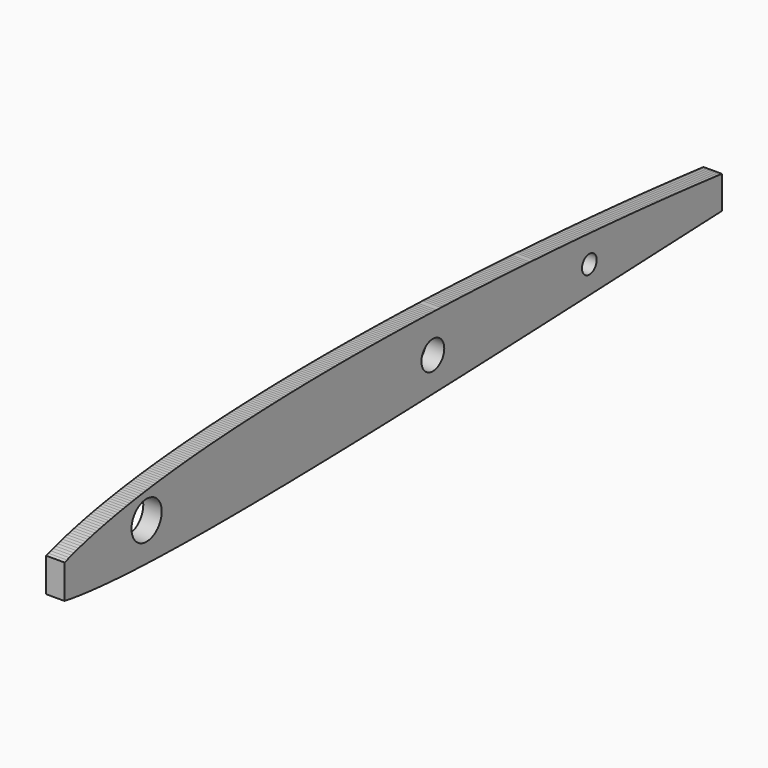
from build123d import *

# Parameters (mm, degrees)
F1_DEPTH = 4
F2_R     = 4.1
F2_R_2   = 3.1
F3_DEPTH = 4.001
F4_R     = 6
F5_DEPTH = 4


with BuildPart() as f1:
    # F0 (on Right) → F1 (new body)
    with BuildSketch(Plane.YZ):
        Polygon((61.373568, -4.357358), (61.388568, 2.741917), (60.753492, 2.811349), (60.118136, 2.879724), (59.483136, 2.948104), (58.848136, 3.016485), (58.21294, 3.084285), (57.577736, 3.151479), (56.942558, 3.218149), (56.307459, 3.284526), (55.672239, 3.350252), (55.037182, 3.415811), (54.40192, 3.480594), (53.766878, 3.545255), (53.131628, 3.609175), (52.496559, 3.672895), (51.861352, 3.736001), (51.226242, 3.798781), (50.591077, 3.861074), (49.955925, 3.922918), (49.320803, 3.984402), (48.68561, 4.045314), (48.05053, 4.105991), (47.415289, 4.165953), (46.780249, 4.225801), (46.144986, 4.284868), (45.509964, 4.343872), (44.874691, 4.402065), (44.239664, 4.460182), (43.604414, 4.51756), (42.969366, 4.574797), (42.334141, 4.631366), (41.699071, 4.687732), (41.063869, 4.7435), (40.428779, 4.799003), (39.793601, 4.853977), (39.158491, 4.908625), (38.523335, 4.962813), (37.888205, 5.016617), (37.253071, 5.070027), (36.617922, 5.122994), (35.98281, 5.175633), (35.347645, 5.227783), (34.712557, 5.279674), (34.077379, 5.331038), (33.442294, 5.382149), (32.807111, 5.432719), (32.172032, 5.483058), (31.536844, 5.53284), (30.901772, 5.58241), (30.26658, 5.63141), (29.631514, 5.680219), (28.996317, 5.728442), (28.361258, 5.776493), (27.726056, 5.823946), (27.091003, 5.871244), (26.455797, 5.917931), (25.820751, 5.964482), (25.185539, 6.010407), (24.550499, 6.056216), (23.915283, 6.101385), (23.28025, 6.146456), (22.645011, 6.19082), (22.009981, 6.235098), (21.374762, 6.278726), (20.739731, 6.322265), (20.104517, 6.36517), (19.469484, 6.407978), (18.834275, 6.450168), (18.199239, 6.492253), (17.564035, 6.533734), (16.928997, 6.575103), (16.293798, 6.615881), (15.658757, 6.656541), (15.023562, 6.696622), (14.388519, 6.736577), (13.753327, 6.775965), (13.118282, 6.81522), (12.483094, 6.853919), (11.848046, 6.892476), (11.212786, 6.930264), (10.577714, 6.967842), (9.942714, 7.005421), (9.307714, 7.043), (8.672463, 7.079832), (8.037378, 7.116417), (7.4022, 7.152473), (6.767133, 7.188333), (6.131957, 7.223671), (5.496883, 7.25879), (4.861708, 7.293394), (4.226627, 7.327757), (3.591454, 7.36161), (2.956365, 7.395201), (2.321195, 7.428287), (1.686098, 7.461087), (1.05093, 7.493389), (0.415824, 7.525381), (-0.219341, 7.556883), (-0.854455, 7.588049), (-1.48971, 7.618461), (-2.124902, 7.648306), (-2.759902, 7.678152), (-3.394902, 7.707999), (-4.030146, 7.737123), (-4.665357, 7.765623), (-5.300512, 7.793665), (-5.935653, 7.821291), (-6.570806, 7.848465), (-7.205951, 7.875208), (-7.841102, 7.901505), (-8.476253, 7.927357), (-9.111401, 7.952771), (-9.746557, 7.977725), (-10.381703, 8.002248), (-11.016863, 8.026297), (-11.652006, 8.049922), (-12.287172, 8.073059), (-12.922312, 8.09578), (-13.557483, 8.117998), (-14.192691, 8.1396), (-14.827957, 8.160416), (-15.462957, 8.181234), (-16.097957, 8.202052), (-16.733168, 8.222243), (-17.368432, 8.241656), (-18.003576, 8.260641), (-18.638744, 8.27913), (-19.273895, 8.297174), (-19.909058, 8.314737), (-20.544215, 8.331835), (-21.179373, 8.348466), (-21.814536, 8.364615), (-22.449689, 8.380311), (-23.084859, 8.395504), (-23.720008, 8.410259), (-24.355184, 8.424492), (-24.990328, 8.4383), (-25.625512, 8.451566), (-26.260651, 8.46442), (-26.895926, 8.476461), (-27.53112, 8.487928), (-28.16612, 8.499396), (-28.80112, 8.510863), (-29.436439, 8.521389), (-30.071595, 8.531455), (-30.706841, 8.540793), (-31.341928, 8.549873), (-31.977202, 8.558144), (-32.612268, 8.566219), (-33.247571, 8.573399), (-33.882615, 8.580448), (-34.517948, 8.586513), (-35.152972, 8.592507), (-35.788332, 8.597439), (-36.423359, 8.60229), (-37.058701, 8.606131), (-37.693754, 8.609813), (-38.329078, 8.612539), (-38.964158, 8.615028), (-39.599463, 8.616616), (-40.234575, 8.617873), (-40.86987, 8.61826), (-41.504973, 8.618178), (-42.139748, 8.617431), (-42.774533, 8.616051), (-43.409359, 8.614155), (-44.044087, 8.611456), (-44.678964, 8.608394), (-45.313634, 8.604355), (-45.948564, 8.600111), (-46.583173, 8.594711), (-47.218117, 8.589145), (-47.852748, 8.582487), (-48.487648, 8.575534), (-49.122331, 8.567645), (-49.757172, 8.559284), (-50.391908, 8.550146), (-51.026688, 8.540356), (-51.66148, 8.529951), (-52.29619, 8.518691), (-52.931036, 8.506973), (-53.565669, 8.494173), (-54.200575, 8.481095), (-54.835195, 8.466895), (-55.470057, 8.452284), (-56.104769, 8.436822), (-56.739531, 8.420659), (-57.374337, 8.403922), (-58.008998, 8.386184), (-58.6439, 8.368154), (-59.278457, 8.348818), (-59.913356, 8.329183), (-60.548007, 8.308516), (-61.182803, 8.287245), (-61.81755, 8.265228), (-62.452239, 8.242289), (-63.087086, 8.2189), (-63.721689, 8.194338), (-64.356541, 8.169336), (-64.991188, 8.143293), (-65.62593, 8.116488), (-66.260723, 8.089069), (-66.895303, 8.06041), (-67.530144, 8.03128), (-68.164759, 8.001014), (-68.799489, 7.96995), (-69.434259, 7.938206), (-70.068813, 7.905146), (-70.703642, 7.871577), (-71.338219, 7.836761), (-71.972934, 7.801102), (-72.607678, 7.764684), (-73.241975, 7.726195), (-73.876856, 7.687349), (-74.511856, 7.648502), (-75.146329, 7.608101), (-75.780978, 7.56666), (-76.415464, 7.523702), (-77.050155, 7.47983), (-77.684887, 7.435164), (-78.319301, 7.388771), (-78.954026, 7.341563), (-79.588682, 7.293336), (-80.223124, 7.243465), (-80.857835, 7.192734), (-81.492405, 7.140736), (-82.12688, 7.087188), (-82.761492, 7.032491), (-83.395701, 6.975461), (-84.030701, 6.918421), (-84.665417, 6.860545), (-85.29966, 6.800437), (-85.934083, 6.738624), (-86.568683, 6.675625), (-87.20328, 6.611436), (-87.837597, 6.545232), (-88.472154, 6.477713), (-89.106727, 6.408935), (-89.741134, 6.338406), (-90.375536, 6.26611), (-91.010082, 6.192469), (-91.644587, 6.117367), (-92.278815, 6.039986), (-92.913347, 5.961218), (-93.54777, 5.880748), (-94.182206, 5.798608), (-94.816412, 5.714128), (-95.450808, 5.627858), (-96.085193, 5.539771), (-96.719565, 5.449828), (-97.353859, 5.357799), (-97.98801, 5.263263), (-98.622318, 5.166681), (-99.25661, 5.068006), (-99.890884, 4.967186), (-100.524987, 4.863717), (-101.159019, 4.75739), (-101.793146, 4.648479), (-102.427279, 4.537007), (-103.061389, 4.422904), (-103.695472, 4.306092), (-104.329527, 4.186487), (-104.963551, 4.063997), (-105.59754, 3.938522), (-106.231439, 3.809794), (-106.865257, 3.677573), (-107.498518, 3.540227), (-108.133207, 3.401919), (-108.76664, 3.259019), (-109.400192, 3.111836), (-110.033873, 2.960747), (-110.667495, 2.805588), (-111.30099, 2.645983), (-111.934445, 2.481812), (-112.567823, 2.312849), (-113.201098, 2.138789), (-113.834077, 1.958764), (-114.466458, 1.771021), (-115.099623, 1.57782), (-115.732488, 1.378319), (-116.365274, 1.172275), (-116.998042, 0.959632), (-117.03456, -6.37858), (-116.400867, -6.483301), (-115.76707, -6.584161), (-115.133247, -6.681468), (-114.501004, -6.775264), (-113.867344, -6.860939), (-113.233528, -6.94266), (-112.59963, -7.020883), (-111.96566, -7.095849), (-111.331628, -7.167773), (-110.697546, -7.236838), (-110.063416, -7.30319), (-109.429245, -7.366973), (-108.79505, -7.428307), (-108.161112, -7.487256), (-107.526856, -7.543071), (-106.892544, -7.596688), (-106.258203, -7.648274), (-105.623837, -7.697912), (-104.989447, -7.745678), (-104.355052, -7.791639), (-103.72072, -7.835813), (-103.086264, -7.878013), (-102.451794, -7.918605), (-101.817508, -7.957631), (-101.183087, -7.994548), (-100.548087, -8.029759), (-99.914054, -8.064962), (-99.279495, -8.097311), (-98.644897, -8.128358), (-98.01036, -8.158215), (-97.375858, -8.186704), (-96.741212, -8.213722), (-96.106559, -8.239693), (-95.471981, -8.264641), (-94.837384, -8.288339), (-94.202691, -8.310846), (-93.56799, -8.332449), (-92.933377, -8.353167), (-92.298702, -8.372742), (-91.663915, -8.391355), (-91.029247, -8.409339), (-90.39457, -8.426342), (-89.759776, -8.44239), (-89.125092, -8.45783), (-88.49038, -8.472336), (-87.855571, -8.485991), (-87.220874, -8.499083), (-86.586132, -8.511279), (-85.951311, -8.522711), (-85.316604, -8.533615), (-84.681838, -8.543652), (-84.04704, -8.552997), (-83.412507, -8.561745), (-82.777507, -8.569114), (-82.142507, -8.576483), (-81.508044, -8.583852), (-80.873161, -8.589635), (-80.238389, -8.595071), (-79.603602, -8.599833), (-78.968712, -8.603965), (-78.334021, -8.607773), (-77.699122, -8.610667), (-77.064318, -8.613263), (-76.429511, -8.615279), (-75.794608, -8.616725), (-75.159877, -8.617886), (-74.52497, -8.61825), (-73.889861, -8.618339), (-73.254686, -8.617927), (-72.619601, -8.616997), (-71.984373, -8.615815), (-71.349312, -8.613959), (-70.71412, -8.611924), (-70.07901, -8.609321), (-69.443875, -8.606395), (-68.80872, -8.603069), (-68.173638, -8.599286), (-67.538441, -8.59526), (-66.903393, -8.59065), (-66.268185, -8.5859), (-65.633126, -8.580536), (-64.997968, -8.574996), (-64.362866, -8.56899), (-63.727757, -8.562683), (-63.092615, -8.556053), (-62.457551, -8.549004), (-61.822371, -8.541765), (-61.187326, -8.533994), (-60.552119, -8.526091), (-59.917079, -8.517574), (-59.281917, -8.508939), (-58.64686, -8.499827), (-58.011724, -8.490547), (-57.376651, -8.480863), (-56.741538, -8.470964), (-56.10645, -8.46073), (-55.471359, -8.450238), (-54.836258, -8.439475), (-54.201186, -8.428416), (-53.566074, -8.417144), (-52.931021, -8.405541), (-52.295898, -8.393781), (-51.660862, -8.381658), (-51.02573, -8.369428), (-50.39071, -8.356807), (-49.755507, -8.344127), (-49.120499, -8.330846), (-48.485499, -8.317543), (-47.850486, -8.304241), (-47.215295, -8.2909), (-46.580286, -8.276994), (-45.945156, -8.26306), (-45.310146, -8.248742), (-44.67502, -8.234396), (-44.04001, -8.219676), (-43.404887, -8.204927), (-42.769877, -8.189815), (-42.134757, -8.174672), (-41.499747, -8.159177), (-40.86463, -8.14365), (-40.229619, -8.127778), (-39.594505, -8.111874), (-38.959494, -8.095634), (-38.324383, -8.079361), (-37.689365, -8.062759), (-37.054194, -8.046104), (-36.419194, -8.028944), (-35.784194, -8.011783), (-35.149188, -7.994623), (-34.514009, -7.977443), (-33.879009, -7.959735), (-33.243896, -7.942027), (-32.608893, -7.923987), (-31.973791, -7.905937), (-31.338781, -7.887587), (-30.703689, -7.869205), (-30.068672, -7.850553), (-29.43359, -7.83185), (-28.798566, -7.812905), (-28.163494, -7.79389), (-27.528464, -7.774659), (-26.8934, -7.755342), (-26.258365, -7.735834), (-25.623309, -7.716223), (-24.988269, -7.696447), (-24.353221, -7.676551), (-23.718176, -7.656514), (-23.083136, -7.636343), (-22.448089, -7.616057), (-21.813058, -7.59563), (-21.177999, -7.575114), (-20.542979, -7.554422), (-19.907912, -7.533672), (-19.272902, -7.512723), (-18.637828, -7.491746), (-18.002827, -7.470547), (-17.367746, -7.449348), (-16.732746, -7.427906), (-16.097674, -7.406465), (-15.462666, -7.384813), (-14.827605, -7.363136), (-14.192588, -7.34128), (-13.557538, -7.319374), (-12.922513, -7.297319), (-12.287472, -7.275191), (-11.65244, -7.252943), (-11.017391, -7.230599), (-10.382331, -7.208111), (-9.747331, -7.185445), (-9.112331, -7.162778), (-8.47731, -7.140112), (-7.842227, -7.117384), (-7.207222, -7.094409), (-6.572163, -7.071421), (-5.937163, -7.048258), (-5.302106, -7.025095), (-4.667102, -7.001763), (-4.032055, -6.97842), (-3.397044, -6.954939), (-2.762007, -6.931424), (-2.126988, -6.907799), (-1.49196, -6.884119), (-0.856935, -6.860356), (-0.221915, -6.83652), (0.413115, -6.812624), (1.048128, -6.788638), (1.683163, -6.764615), (2.318169, -6.740487), (2.953209, -6.716341), (3.588209, -6.692077), (4.223237, -6.667814), (4.858237, -6.64347), (5.493274, -6.619125), (6.12828, -6.594671), (6.763311, -6.5702), (7.398322, -6.545638), (8.033347, -6.521041), (8.668364, -6.496371), (9.303383, -6.471651), (9.938405, -6.446875), (10.573419, -6.422033), (11.208446, -6.397151), (11.843454, -6.372189), (12.478486, -6.347204), (13.113489, -6.322123), (13.748525, -6.297034), (14.383525, -6.271837), (15.018562, -6.24664), (15.653564, -6.221335), (16.288594, -6.196023), (16.923602, -6.170622), (17.558643, -6.145198), (18.193663, -6.119652), (18.828682, -6.094047), (19.463697, -6.068386), (20.09871, -6.042682), (20.733726, -6.016938), (21.368736, -5.991147), (22.003753, -5.965328), (22.638758, -5.939458), (23.273776, -5.913571), (23.908779, -5.887633), (24.543795, -5.861687), (25.178796, -5.835692), (25.813811, -5.809695), (26.448811, -5.783652), (27.083823, -5.75761), (27.718824, -5.731533), (28.353831, -5.705453), (28.988833, -5.679351), (29.623831, -5.653244), (30.25883, -5.627145), (30.89383, -5.601048), (31.52883, -5.574951), (32.163825, -5.548855), (32.798822, -5.522771), (33.433822, -5.496697), (34.068823, -5.470623), (34.703823, -5.444547), (35.338822, -5.418471), (35.973822, -5.392395), (36.608822, -5.36632), (37.243821, -5.340247), (37.87882, -5.314175), (38.513819, -5.288107), (39.148818, -5.262041), (39.783817, -5.235979), (40.418815, -5.209919), (41.053814, -5.183866), (41.688811, -5.157815), (42.323811, -5.131773), (42.958808, -5.105732), (43.593808, -5.079699), (44.228808, -5.053665), (44.863808, -5.027632), (45.498803, -5.0016), (46.133802, -4.975581), (46.768795, -4.949564), (47.403794, -4.92357), (48.038785, -4.897578), (48.673784, -4.871612), (49.308774, -4.84565), (49.943772, -4.819717), (50.578761, -4.79379), (51.213759, -4.767896), (51.848746, -4.742008), (52.483743, -4.716158), (53.118729, -4.690317), (53.753726, -4.664517), (54.388711, -4.638727), (55.023706, -4.612982), (55.65869, -4.58725), (56.293684, -4.561567), (56.928667, -4.535899), (57.563659, -4.510283), (58.198643, -4.484691), (58.833631, -4.459145), (59.468617, -4.433635), (60.103601, -4.408166), (60.738589, -4.382744), align=None)
        with BuildLine():
            ThreePointArc((-44.100002, 0.266594), (-38.100002, 6.266594), (-32.100002, 0.266594))
            ThreePointArc((-32.100002, 0.266594), (-38.100002, -5.733406), (-44.100002, 0.266594))
        make_face(mode=Mode.SUBTRACT)
        with BuildLine():
            ThreePointArc((23.399996, 0.097237), (25.399996, 2.097237), (27.399996, 0.097237))
            ThreePointArc((27.399996, 0.097237), (25.399996, -1.902763), (23.399996, 0.097237))
        make_face(mode=Mode.SUBTRACT)
    extrude(amount=F1_DEPTH)

    # F2 (on Right) → F3 (cut, through all)
    with BuildSketch(Plane.YZ):
        with Locations((-94.7525420228, 0)):
            Circle(F2_R)
        with Locations((-17.0680992305, 0)):
            Circle(F2_R_2)
    extrude(amount=F3_DEPTH, mode=Mode.SUBTRACT)

    # F4 (on Right) → F5 (join, through all)
    with BuildSketch(Plane.YZ):
        with Locations((-38.100002, 0.266594)):
            Circle(F4_R)
    extrude(amount=F5_DEPTH)


solid = f1.part
